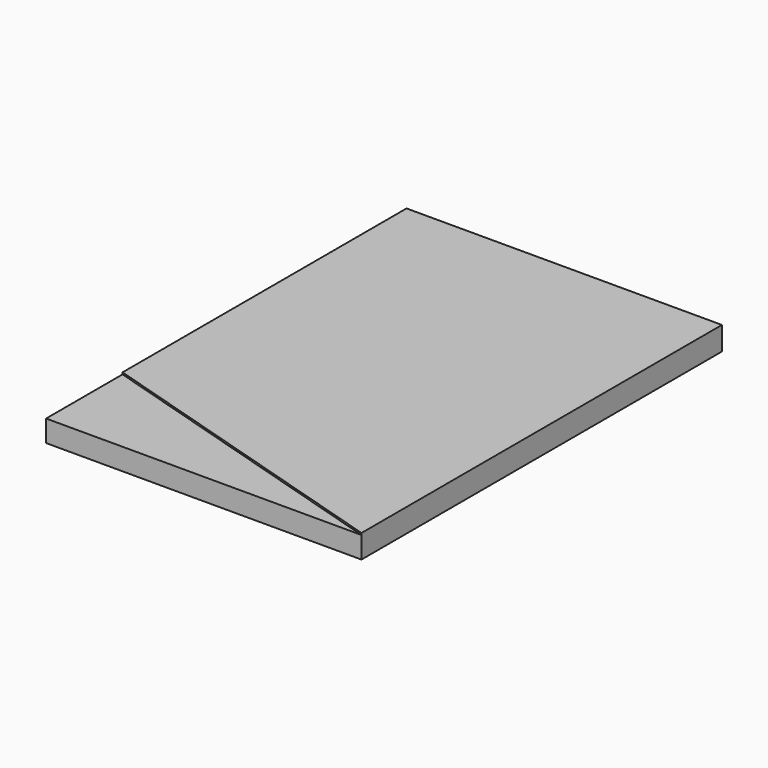
from build123d import *

# Parameters (mm, degrees)
PAD_DEPTH    = 13
POCKET_DEPTH = 1


with BuildPart() as part:
    # Sketch → Pad (new body)
    with BuildSketch(Plane.XY):
        Polygon((0, 0), (0, 125), (175, 125), (175, -125), (0, -125), align=None)
    extrude(amount=PAD_DEPTH)

    # Sketch002 (on Face7 of Pad) → Pocket (cut)
    with BuildSketch(Plane.XY.offset(13)):
        Polygon((0, -125), (0, -71.973152), (175, -125), align=None)
    extrude(amount=-POCKET_DEPTH, mode=Mode.SUBTRACT)


solid = part.part
